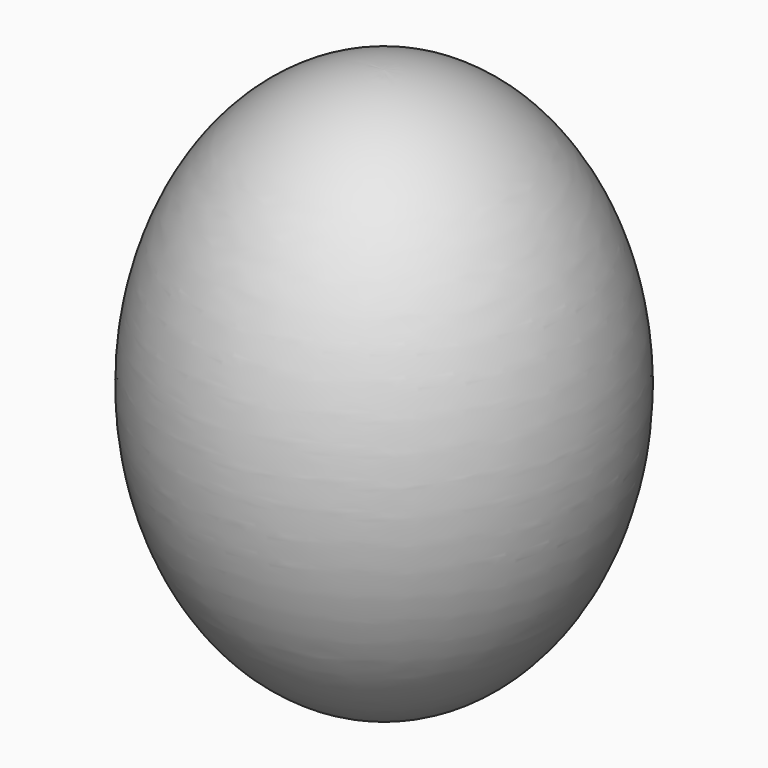
from build123d import *


with BuildPart() as f2:
    # F0 (on Front) → F2 (revolve)
    with BuildSketch(Plane.XZ):
        with BuildLine():
            Line((0, -29), (0, 29))
            add(Edge.make_bspline(
                [(0, 29), (-22, 29), (-22, 0), (-22, -29), (0, -29)],
                knots=[0, 0, 0, 1.5707963268, 1.5707963268, 3.1415926536, 3.1415926536, 3.1415926536], degree=2, weights=[1, 0.7071067812, 1, 0.7071067812, 1]))
        make_face()
    revolve(axis=Axis((0, 0, -10.5566270649), (0, 0, -1)))


solid = f2.part
